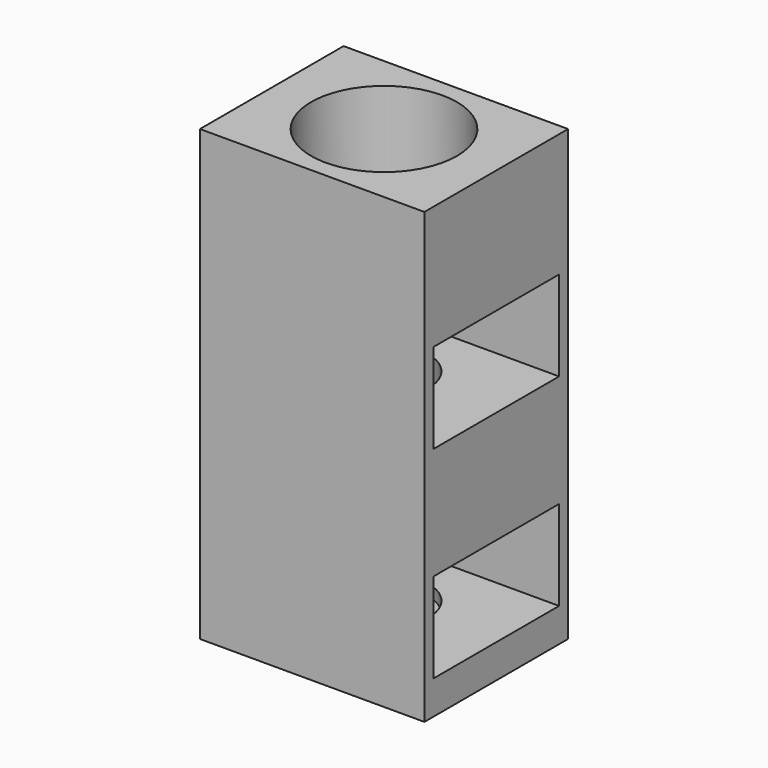
from build123d import *

# Parameters (mm, degrees)
F0_W     = 15
F0_H     = 20
F1_DEPTH = 4
F2_R     = 2
F3_DEPTH = 19
F4_R     = 3.25
F4_R_2   = 2
F5_DEPTH = 5
F6_W     = 7
F6_H     = 4
F7_DEPTH = 15.001
F8_W     = 5
F8_H     = 20
F9_DEPTH = 8.001


with BuildPart() as f1:
    # F0 (on Front) → F1 (new body, symmetric)
    with BuildSketch(Plane.XZ):
        Rectangle(F0_W, F0_H)
    extrude(amount=F1_DEPTH, both=True)

    # F2 (on face) → F3 (cut)
    with BuildSketch(Plane.XY.offset(10)):
        with Locations((-2.5, 0)):
            Circle(F2_R)
    extrude(amount=-F3_DEPTH, mode=Mode.SUBTRACT)

    # F4 (on face) → F5 (cut)
    with BuildSketch(Plane.XY.offset(10)):
        with Locations((-2.5, 0)):
            Circle(F4_R)
        with Locations((-2.5, 0)):
            Circle(F4_R_2, mode=Mode.SUBTRACT)
    extrude(amount=-F5_DEPTH, mode=Mode.SUBTRACT)

    # F6 (on face) → F7 (cut, through all)
    with BuildSketch(Plane.YZ.offset(7.5)):
        with Locations((0, 2.5)):
            Rectangle(F6_W, F6_H)
        with Locations((0, -6.5)):
            Rectangle(F6_W, F6_H)
    extrude(amount=-F7_DEPTH, mode=Mode.SUBTRACT)

    # F8 (on face) → F9 (cut, through all)
    with BuildSketch(Plane.XZ.offset(4)):
        with Locations((5, 0)):
            Rectangle(F8_W, F8_H)
    extrude(amount=-F9_DEPTH, mode=Mode.SUBTRACT)


solid = f1.part
